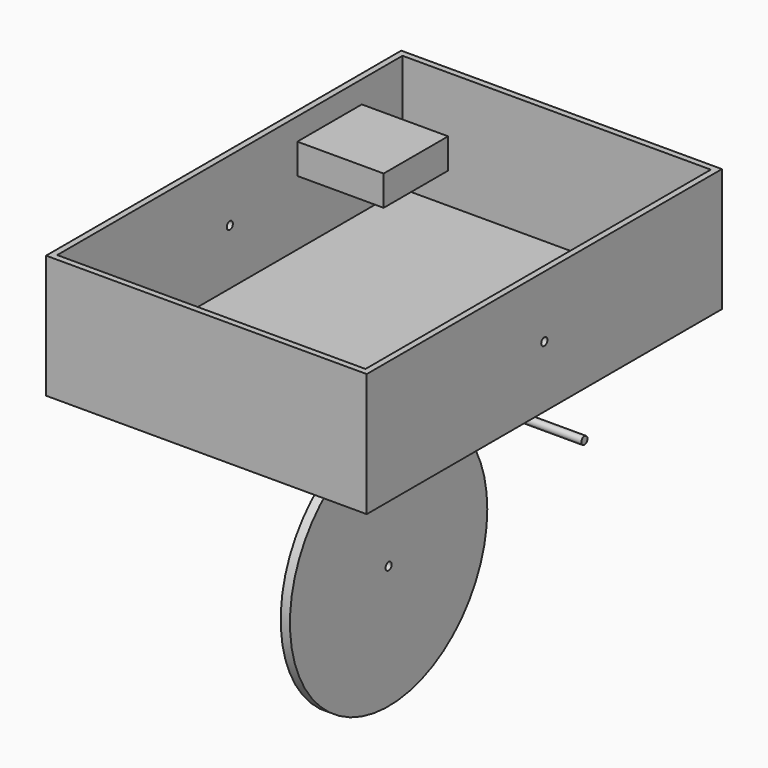
from build123d import *

# Parameters (mm, degrees)
F0_W      = 127
F0_H      = 177.8
F1_DEPTH  = 2.54
F0_W_2    = 132.08
F0_H_2    = 182.88
F2_DEPTH  = 50.8
F3_R      = 1.5875
F4_DEPTH  = 2.54
F5_R      = 1.5875
F6_DEPTH  = 2.54
F7_R      = 1.5875
F8_DEPTH  = 82.55
F9_R      = 50.8
F9_R_2    = 1.5875
F10_DEPTH = 1.905
F11_W     = 33.191652
F11_H     = 12.446872
F12_DEPTH = 17.78


with BuildPart() as f1:
    # F0 (on Top) → F1 (new body)
    with BuildSketch(Plane.XY):
        Rectangle(F0_W, F0_H)
    extrude(amount=F1_DEPTH)

    # F0 (on Top) → F2 (join)
    with BuildSketch(Plane.XY):
        Rectangle(F0_W_2, F0_H_2)
        Rectangle(F0_W, F0_H, mode=Mode.SUBTRACT)
    extrude(amount=F2_DEPTH)

    # F3 (on face) → F4 (cut)
    with BuildSketch(Plane.YZ.offset(66.04)):
        with Locations((0, 25.4)):
            Circle(F3_R)
    extrude(amount=-F4_DEPTH, mode=Mode.SUBTRACT)

    # F5 (on face) → F6 (cut)
    with BuildSketch(Plane(origin=(-66.04, 0, 0), x_dir=(0, -1, 0), z_dir=(-1, 0, 0))):
        with Locations((0, 25.4)):
            Circle(F5_R)
    extrude(amount=-F6_DEPTH, mode=Mode.SUBTRACT)


with BuildPart() as f8:
    # F7 (on Right) → F8 (new body, symmetric)
    with BuildSketch(Plane.YZ):
        with Locations((0, -5.076386)):
            Circle(F7_R)
    extrude(amount=F8_DEPTH, both=True)


with BuildPart() as f10:
    # F9 (on Right) → F10 (new body, symmetric)
    with BuildSketch(Plane.YZ):
        with Locations((0, -76.884641)):
            Circle(F9_R)
        with Locations((0, -76.884641)):
            Circle(F9_R_2, mode=Mode.SUBTRACT)
    extrude(amount=F10_DEPTH, both=True)


with BuildPart() as f12:
    # F11 (on Right) → F12 (new body, symmetric)
    with BuildSketch(Plane.YZ):
        with Locations((-5.806401, 73.548127)):
            Rectangle(F11_W, F11_H)
    extrude(amount=F12_DEPTH, both=True)


solid = Compound([f1.part, f8.part, f10.part, f12.part])
